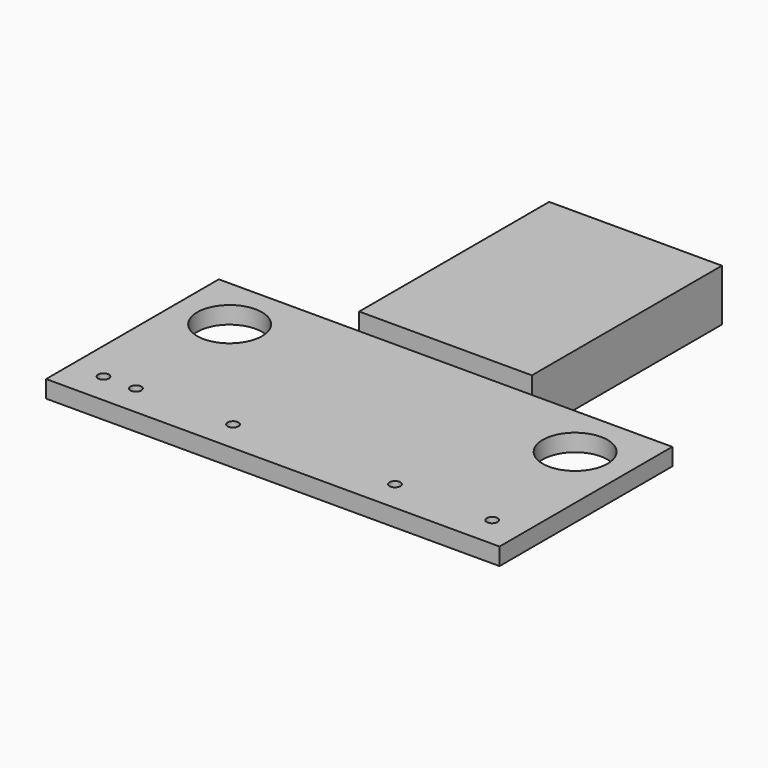
from build123d import *

# Parameters (mm, degrees)
SKETCH_W     = 21
SKETCH_H     = 10
PAD_DEPTH    = 0.8
SKETCH001_W  = 8
SKETCH001_H  = 1.2
PAD001_DEPTH = 11
SKETCH002_W  = 8
SKETCH002_H  = 1.2
PAD002_DEPTH = 11
SKETCH003_R  = 0.25
POCKET_DEPTH = 3
SKETCH004_R  = 1.5
HOLE_DEPTH   = 1.601


with BuildPart() as part:
    # Sketch → Pad (new body)
    with BuildSketch(Plane.XY):
        Rectangle(SKETCH_W, SKETCH_H)
    extrude(amount=PAD_DEPTH)

    # Sketch001 (on Face1 of Pad) → Pad001 (join)
    with BuildSketch(Plane(origin=(0, 5, 0), x_dir=(-1, 0, 0), z_dir=(0, 1, 0))):
        with Locations((0, -0.2)):
            Rectangle(SKETCH001_W, SKETCH001_H)
    extrude(amount=PAD001_DEPTH)

    # Sketch002 (on Face1 of Pad001) → Pad002 (join)
    with BuildSketch(Plane(origin=(0, 5, 0), x_dir=(-1, 0, 0), z_dir=(0, 1, 0))):
        with Locations((0, 1)):
            Rectangle(SKETCH002_W, SKETCH002_H)
    extrude(amount=PAD002_DEPTH)

    # Sketch003 (on Face5 of Pad002) → Pocket (cut)
    with BuildSketch(Plane.XY.offset(0.8)):
        with Locations((-9, -3.55)):
            Circle(SKETCH003_R)
        with Locations((-7.5, -3.55)):
            Circle(SKETCH003_R)
        with Locations((-3, -3.55)):
            Circle(SKETCH003_R)
        with Locations((4.5, -3.55)):
            Circle(SKETCH003_R)
        with Locations((9, -3.55)):
            Circle(SKETCH003_R)
    extrude(amount=-POCKET_DEPTH, mode=Mode.SUBTRACT)

    # Sketch004 (on Face5 of Pocket) → Hole (cut, through all)
    with BuildSketch(Plane.XY.offset(0.8)):
        with Locations((-8, 2.5)):
            Circle(SKETCH004_R)
        with Locations((8, 2.5)):
            Circle(SKETCH004_R)
    extrude(amount=-HOLE_DEPTH, mode=Mode.SUBTRACT)


solid = part.part
